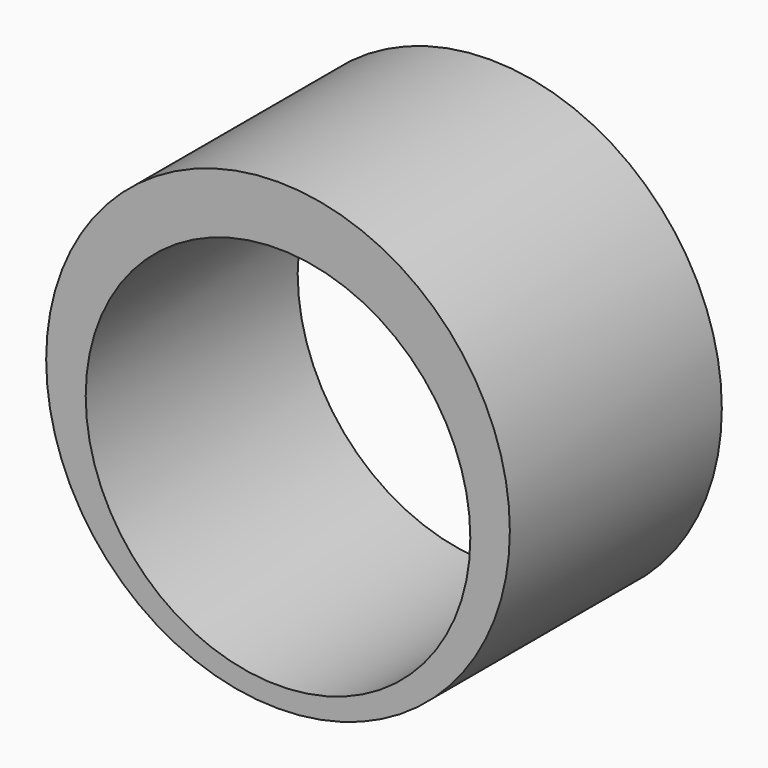
from build123d import *

# Parameters (mm, degrees)
F0_R       = 44.45
F1_DEPTH   = 50.8
F2_R       = 36.8700137649
F1_FACE1_R = 44.45
F3_DEPTH   = 76.2


with BuildPart() as f1:
    # F0 (on Front) → F1 (new body)
    with BuildSketch(Plane.XZ):
        with Locations((0, 3.6793364112)):
            Circle(F0_R)
    extrude(amount=F1_DEPTH)

    # F2 (on face) + F1_face1 (on face) → F3 (cut)
    with BuildSketch(Plane.XZ.offset(50.8)):
        Circle(F2_R)
    with BuildSketch(Plane(origin=(0, 0, 3.6793364112), x_dir=(1, 0, 0), z_dir=(0, 1, 0))):
        Circle(F1_FACE1_R)
    extrude(amount=-F3_DEPTH, dir=(0, -1, 0), mode=Mode.SUBTRACT)


solid = f1.part
